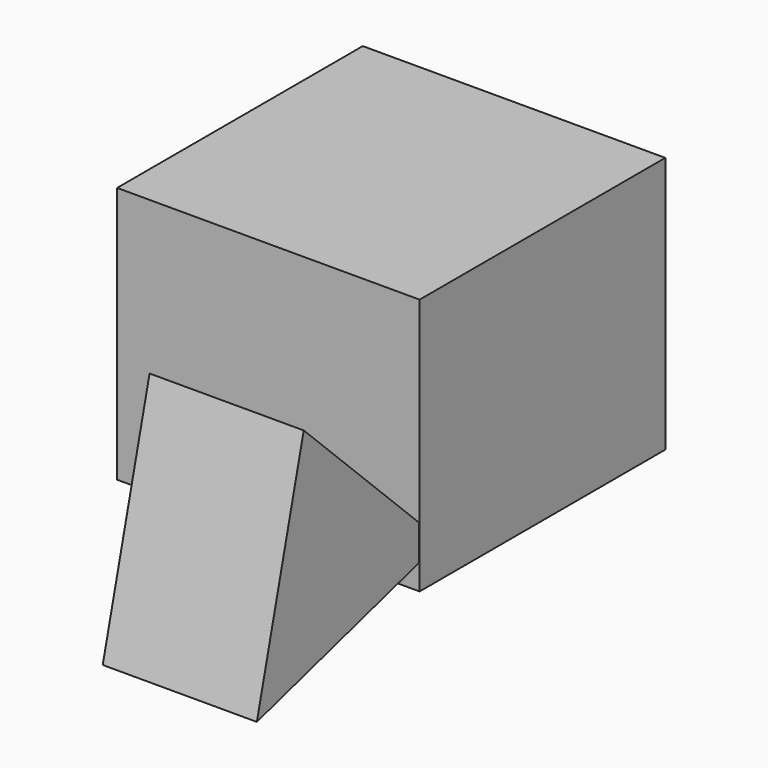
from build123d import *

# Parameters (mm, degrees)
F0_W     = 149.540819
F0_H     = 151.806592
F1_DEPTH = 127
F3_DEPTH = 76.2


with BuildPart() as f1:
    # F0 (on Top) → F1 (new body)
    with BuildSketch(Plane.XY):
        with Locations((1.840938, 0)):
            Rectangle(F0_W, F0_H)
    extrude(amount=F1_DEPTH)

    # F2 (on Right) → F3 (join)
    with BuildSketch(Plane.YZ):
        Polygon((-175.949735, -16.232915), (-61.804893, 16.232915), (-146.993548, 98.852333), align=None)
    extrude(amount=F3_DEPTH)


solid = f1.part
